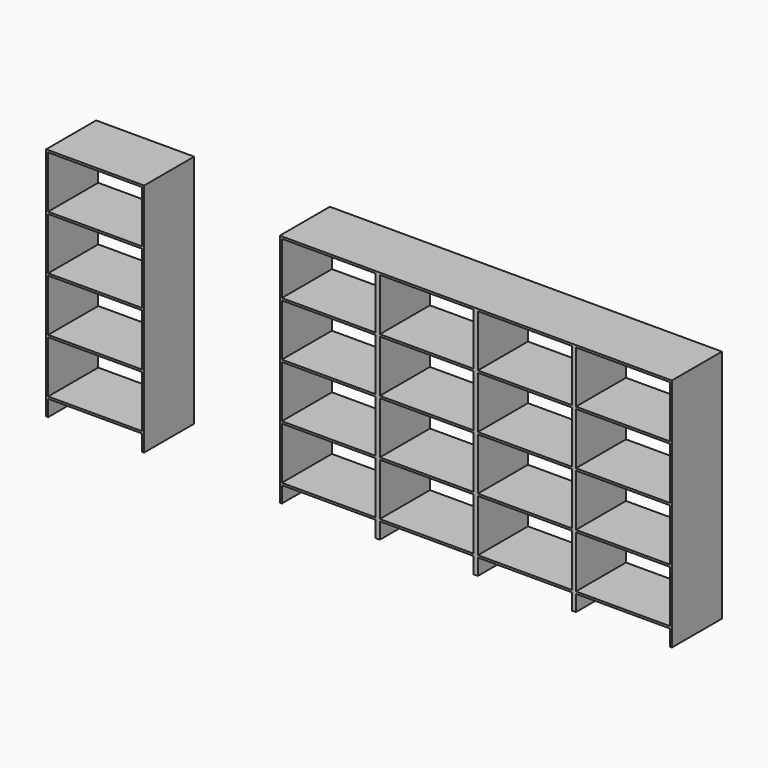
from build123d import *

# Parameters (mm, degrees)
F0_W     = 900
F0_H     = 20
F1_DEPTH = 600


with BuildPart() as f1:
    # F0 (on Front) → F1 (new body)
    with BuildSketch(Plane.XZ):
        Polygon((0, 342.806876), (0, 842.806876), (0, 862.806876), (0, 1362.806876), (0, 1382.806876), (0, 1882.806876), (0, 1902.806876), (0, 2402.806876), (-20, 2402.806876), (-20, 167.898178), (0, 167.898178), (0, 322.806876), align=None)
        Polygon((2800, 167.898178), (2800, 2402.806876), (2780, 2402.806876), (2780, 1902.806876), (2780, 1882.806876), (2780, 1382.806876), (2780, 1362.806876), (2780, 862.806876), (2780, 842.806876), (2780, 342.806876), (2780, 322.806876), (2780, 167.898178), align=None)
        Polygon((1880, 2402.806876), (1860, 2402.806876), (1860, 167.898178), (1880, 167.898178), (1880, 322.806876), (1880, 342.806876), (1880, 842.806876), (1880, 862.806876), (1880, 1362.806876), (1880, 1382.806876), (1880, 1882.806876), (1880, 1902.806876), align=None)
        with Locations((3270, 852.806876)):
            Rectangle(F0_W, F0_H)
        Polygon((900, 862.806876), (900, 842.806876), (900, 342.806876), (900, 322.806876), (900, 167.898178), (920, 167.898178), (920, 2402.806876), (900, 2402.806876), (900, 1902.806876), (900, 1882.806876), (900, 1382.806876), (900, 1362.806876), align=None)
        with Locations((1390, 852.806876)):
            Rectangle(F0_W, F0_H)
        with Locations((2330, 1372.806876)):
            Rectangle(F0_W, F0_H)
        with Locations((450, 1372.806876)):
            Rectangle(F0_W, F0_H)
        with Locations((450, 852.806876)):
            Rectangle(F0_W, F0_H)
        with Locations((3270, 1372.806876)):
            Rectangle(F0_W, F0_H)
        with Locations((2330, 852.806876)):
            Rectangle(F0_W, F0_H)
        with Locations((1390, 1372.806876)):
            Rectangle(F0_W, F0_H)
        Polygon((2800, 2422.806876), (1860, 2422.806876), (1860, 2402.806876), (1880, 2402.806876), (2780, 2402.806876), (2800, 2402.806876), align=None)
        Polygon((3740, 2422.806876), (2800, 2422.806876), (2800, 2402.806876), (2820, 2402.806876), (3720, 2402.806876), (3740, 2402.806876), align=None)
        Polygon((920, 2402.806876), (920, 167.898178), (940, 167.898178), (940, 322.806876), (940, 342.806876), (940, 842.806876), (940, 862.806876), (940, 1362.806876), (940, 1382.806876), (940, 1882.806876), (940, 1902.806876), (940, 2402.806876), align=None)
        Polygon((2820, 2402.806876), (2800, 2402.806876), (2800, 167.898178), (2820, 167.898178), (2820, 322.806876), (2820, 342.806876), (2820, 842.806876), (2820, 862.806876), (2820, 1362.806876), (2820, 1382.806876), (2820, 1882.806876), (2820, 1902.806876), align=None)
        Polygon((3740, 167.898178), (3740, 2402.806876), (3720, 2402.806876), (3720, 1902.806876), (3720, 1882.806876), (3720, 1382.806876), (3720, 1362.806876), (3720, 862.806876), (3720, 842.806876), (3720, 342.806876), (3720, 322.806876), (3720, 167.898178), align=None)
        Polygon((-20, 2422.806876), (-20, 2402.806876), (0, 2402.806876), (900, 2402.806876), (920, 2402.806876), (920, 2422.806876), align=None)
        Polygon((920, 2422.806876), (920, 2402.806876), (940, 2402.806876), (1840, 2402.806876), (1860, 2402.806876), (1860, 2422.806876), align=None)
        with Locations((1390, 332.806876)):
            Rectangle(F0_W, F0_H)
        with Locations((3270, 332.806876)):
            Rectangle(F0_W, F0_H)
        Polygon((1860, 2402.806876), (1840, 2402.806876), (1840, 1902.806876), (1840, 1882.806876), (1840, 1382.806876), (1840, 1362.806876), (1840, 862.806876), (1840, 842.806876), (1840, 342.806876), (1840, 322.806876), (1840, 167.898178), (1860, 167.898178), align=None)
        with Locations((2330, 332.806876)):
            Rectangle(F0_W, F0_H)
        with Locations((450, 332.806876)):
            Rectangle(F0_W, F0_H)
        with Locations((450, 1892.806876)):
            Rectangle(F0_W, F0_H)
        with Locations((2330, 1892.806876)):
            Rectangle(F0_W, F0_H)
        with Locations((3270, 1892.806876)):
            Rectangle(F0_W, F0_H)
        with Locations((1390, 1892.806876)):
            Rectangle(F0_W, F0_H)
        Polygon((-2240.826035, 862.806876), (-2240.826035, 1362.806876), (-2240.826035, 1382.806876), (-2240.826035, 1882.806876), (-2240.826035, 1902.806876), (-2240.826035, 2402.806876), (-1340.826035, 2402.806876), (-1340.826035, 1902.806876), (-1340.826035, 1882.806876), (-1340.826035, 1382.806876), (-1340.826035, 1362.806876), (-1340.826035, 862.806876), (-1340.826035, 842.806876), (-1340.826035, 342.806876), (-1340.826035, 322.806876), (-1340.826035, 167.898178), (-1320.826035, 167.898178), (-1320.826035, 2402.806876), (-1320.826035, 2422.806876), (-2260.826035, 2422.806876), (-2260.826035, 2402.806876), (-2260.826035, 167.898178), (-2240.826035, 167.898178), (-2240.826035, 322.806876), (-2240.826035, 342.806876), (-2240.826035, 842.806876), align=None)
        with Locations((-1790.826035, 332.806876)):
            Rectangle(F0_W, F0_H)
        with Locations((-1790.826035, 852.806876)):
            Rectangle(F0_W, F0_H)
        with Locations((-1790.826035, 1372.806876)):
            Rectangle(F0_W, F0_H)
        with Locations((-1790.826035, 1892.806876)):
            Rectangle(F0_W, F0_H)
    extrude(amount=F1_DEPTH)


solid = f1.part
